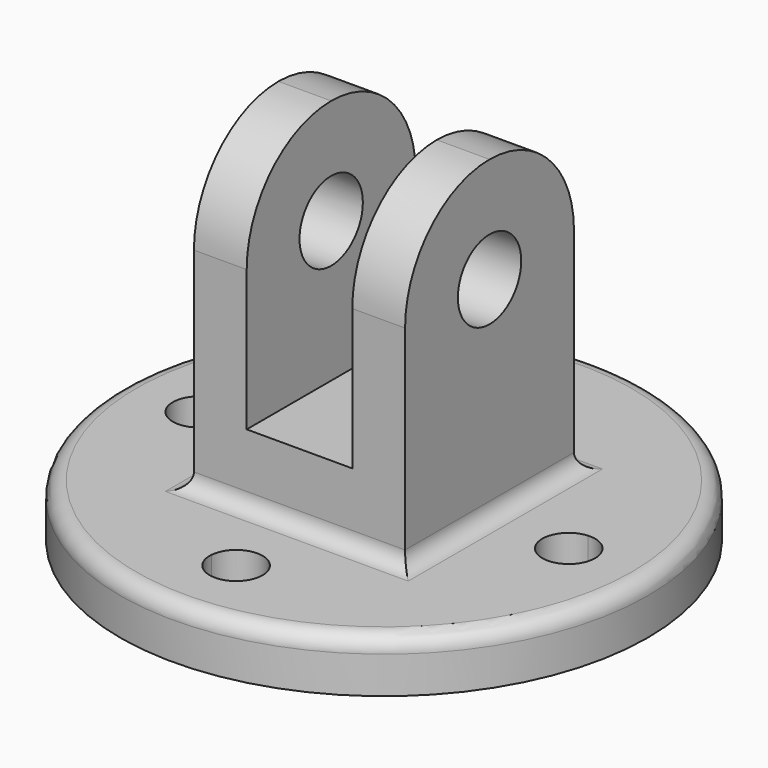
from build123d import *

# Parameters (mm, degrees)
F1_DEPTH = 50.8
F3_DEPTH = 50.801
F4_R     = 9.525
F5_DEPTH = 50.801
F6_R     = 63.5
F6_W     = 50.8
F6_H     = 50.8
F7_DEPTH = 12.7
F8_R     = 3.81


with BuildPart() as f1:
    # F0 (on Front) → F1 (new body)
    with BuildSketch(Plane.XZ):
        Polygon((-38.3064501607, 0), (-38.3064501607, 59.24468064), (-51.0064501607, 59.24468064), (-51.0064501607, -16.95531936), (-0.2064501607, -16.95531936), (-0.2064501607, 59.24468064), (-12.9064501607, 59.24468064), (-12.9064501607, 0), align=None)
    extrude(amount=F1_DEPTH)

    # F2 (on face) → F3 (cut, through all)
    with BuildSketch(Plane.YZ.offset(-0.2064501607)):
        with BuildLine():
            ThreePointArc((-50.8, 33.84468064), (-43.3605122421, 51.8051928821), (-25.4, 59.24468064))
            Line((-25.4, 59.24468064), (-50.8, 59.24468064))
            Line((-50.8, 59.24468064), (-50.8, 33.84468064))
        make_face()
        with BuildLine():
            ThreePointArc((-25.4, 59.24468064), (-7.4394877579, 51.8051928821), (0, 33.84468064))
            Line((0, 33.84468064), (0, 59.24468064))
            Line((0, 59.24468064), (-25.4, 59.24468064))
        make_face()
    extrude(amount=-F3_DEPTH, mode=Mode.SUBTRACT)

    # F4 (on face) → F5 (cut, through all)
    with BuildSketch(Plane.YZ.offset(-0.2064501607)):
        with Locations((-25.4, 33.84468064)):
            Circle(F4_R)
    extrude(amount=-F5_DEPTH, mode=Mode.SUBTRACT)

    # F6 (on face) → F7 (join)
    with BuildSketch(Plane(origin=(0, 0, -16.95531936), x_dir=(1, 0, 0), z_dir=(0, 0, -1))):
        with Locations((-25.6064501607, 25.4)):
            Circle(F6_R)
        with BuildLine():
            ThreePointArc((-19.2726698552, 69.3964285714), (5.824446263, 56.8308964237), (18.3899784107, 31.7337803056))
            ThreePointArc((18.3899784107, 31.7337803056), (23.1703455028, 30.0477240974), (25.1935498393, 25.4))
            ThreePointArc((25.1935498393, 25.4), (23.1703455028, 20.7522759026), (18.3899784107, 19.0662196944))
            ThreePointArc((18.3899784107, 19.0662196944), (5.824446263, -6.0308964237), (-19.2726698552, -18.5964285714))
            ThreePointArc((-19.2726698552, -18.5964285714), (-19.2605063799, -18.8230693282), (-19.2564501607, -19.05))
            ThreePointArc((-19.2564501607, -19.05), (-25.8333808326, -25.3959437809), (-31.9402304663, -18.5964285714))
            ThreePointArc((-31.9402304663, -18.5964285714), (-57.0373465845, -6.0308964237), (-69.6028787322, 19.0662196944))
            ThreePointArc((-69.6028787322, 19.0662196944), (-76.4064501607, 25.4), (-69.6028787322, 31.7337803056))
            ThreePointArc((-69.6028787322, 31.7337803056), (-57.0373465845, 56.8308964237), (-31.9402304663, 69.3964285714))
            ThreePointArc((-31.9402304663, 69.3964285714), (-25.8333808326, 76.1959437809), (-19.2564501607, 69.85))
            ThreePointArc((-19.2564501607, 69.85), (-19.2605063799, 69.6230693282), (-19.2726698552, 69.3964285714))
        make_face(mode=Mode.SUBTRACT)
        with BuildLine():
            ThreePointArc((18.3899784107, 19.0662196944), (12.4935498393, 25.4), (18.3899784107, 31.7337803056))
            ThreePointArc((18.3899784107, 31.7337803056), (5.824446263, 56.8308964237), (-19.2726698552, 69.3964285714))
            ThreePointArc((-19.2726698552, 69.3964285714), (-25.6064501607, 63.5), (-31.9402304663, 69.3964285714))
            ThreePointArc((-31.9402304663, 69.3964285714), (-57.0373465845, 56.8308964237), (-69.6028787322, 31.7337803056))
            ThreePointArc((-69.6028787322, 31.7337803056), (-65.4087260633, 29.7267956636), (-63.7064501607, 25.4))
            ThreePointArc((-63.7064501607, 25.4), (-65.4087260633, 21.0732043364), (-69.6028787322, 19.0662196944))
            ThreePointArc((-69.6028787322, 19.0662196944), (-57.0373465845, -6.0308964237), (-31.9402304663, -18.5964285714))
            ThreePointArc((-31.9402304663, -18.5964285714), (-25.6064501607, -12.7), (-19.2726698552, -18.5964285714))
            ThreePointArc((-19.2726698552, -18.5964285714), (5.824446263, -6.0308964237), (18.3899784107, 19.0662196944))
        make_face()
        with Locations((-25.6064501607, 25.4)):
            Rectangle(F6_W, F6_H, mode=Mode.SUBTRACT)
        with Locations((-25.6064501607, 25.4)):
            Rectangle(F6_W, F6_H)
    extrude(amount=F7_DEPTH)

    # F8
    f8_edges = [f1.edges().sort_by_distance(p)[0] for p in [
        (-51.00645, -25.4, -16.955319),
        (-25.60645, -50.8, -16.955319),
        (-0.20645, -25.4, -16.955319),
        (-25.60645, 0, -16.955319),
        (-89.10645, -25.4, -16.955319),
    ]]
    fillet(f8_edges, radius=F8_R)


solid = f1.part
